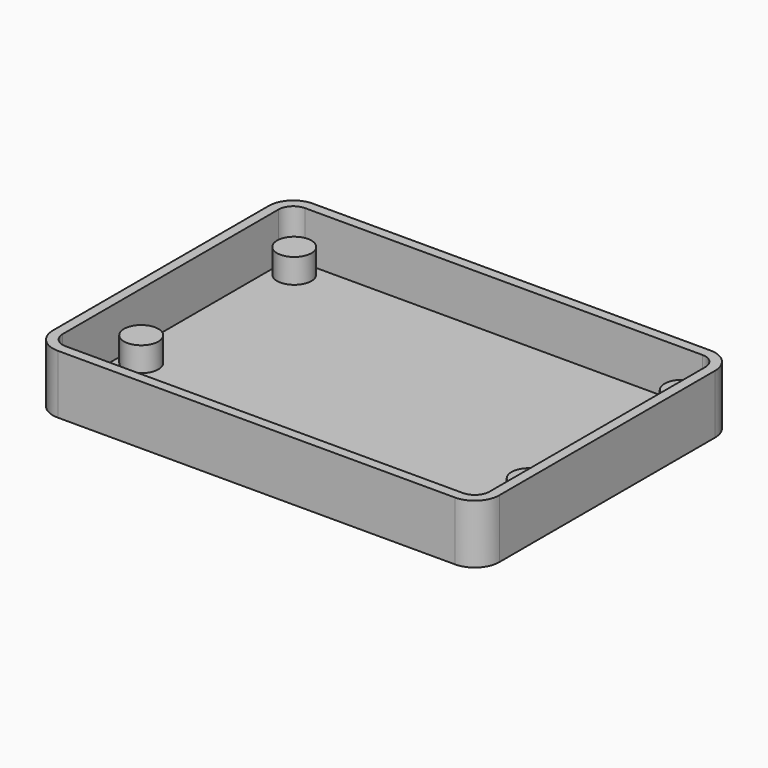
from build123d import *

# Parameters (mm, degrees)
PAD_DEPTH                    = 12
POCKET_DEPTH                 = 10
SKETCH003_R                  = 3.5
PAD001_DEPTH                 = 5
SKETCH003_LINEARPATTERN_2_R  = 3.5
PAD001_LINEARPATTERN_2_DEPTH = 5
LINEARPATTERN001_COUNT       = 2
LINEARPATTERN001_PITCH       = 39


with BuildPart() as part:
    # Sketch → Pad (new body)
    with BuildSketch(Plane.XY):
        with BuildLine():
            Line((5, 0), (86, 0))
            ThreePointArc((86, 0), (89.535534, 1.464466), (91, 5))
            Line((91, 5), (91, 60))
            ThreePointArc((91, 60), (89.535534, 63.535534), (86, 65))
            Line((86, 65), (5, 65))
            ThreePointArc((5, 65), (1.464466, 63.535534), (0, 60))
            Line((0, 60), (0, 5))
            ThreePointArc((0, 5), (1.464466, 1.464466), (5, 0))
        make_face()
    extrude(amount=PAD_DEPTH)

    # Sketch002 → Pocket (cut)
    with BuildSketch(Plane.XY.offset(12)):
        with BuildLine():
            Line((5, 2), (86, 2))
            ThreePointArc((86, 2), (88.12132, 2.87868), (89, 5))
            Line((89, 5), (89, 60))
            ThreePointArc((89, 60), (88.12132, 62.12132), (86, 63))
            Line((86, 63), (5, 63))
            ThreePointArc((5, 63), (2.87868, 62.12132), (2, 60))
            Line((2, 60), (2, 5))
            ThreePointArc((2, 5), (2.87868, 2.87868), (5, 2))
        make_face()
    extrude(amount=-POCKET_DEPTH, mode=Mode.SUBTRACT)

    # Sketch003 → Pad001 (join)
    with BuildSketch(Plane.XY.offset(2)):
        with Locations((6, 20)):
            Circle(SKETCH003_R)
    pad001 = extrude(amount=PAD001_DEPTH)

    # Sketch003 LinearPattern 2 → Pad001 LinearPattern 2 (add)
    with BuildSketch(Plane(origin=(79, 0, 2), x_dir=(1, 0, 0), z_dir=(0, 0, 1))):
        with Locations((6, 20)):
            Circle(SKETCH003_LINEARPATTERN_2_R)
    pad001_linearpattern_2 = extrude(amount=PAD001_LINEARPATTERN_2_DEPTH)

    # LinearPattern001: Pad001, Pad001 LinearPattern 2 ×2
    with Locations(*[(0, i * LINEARPATTERN001_PITCH, 0) for i in range(1, LINEARPATTERN001_COUNT)]):
        add(pad001)
        add(pad001_linearpattern_2)


solid = part.part
